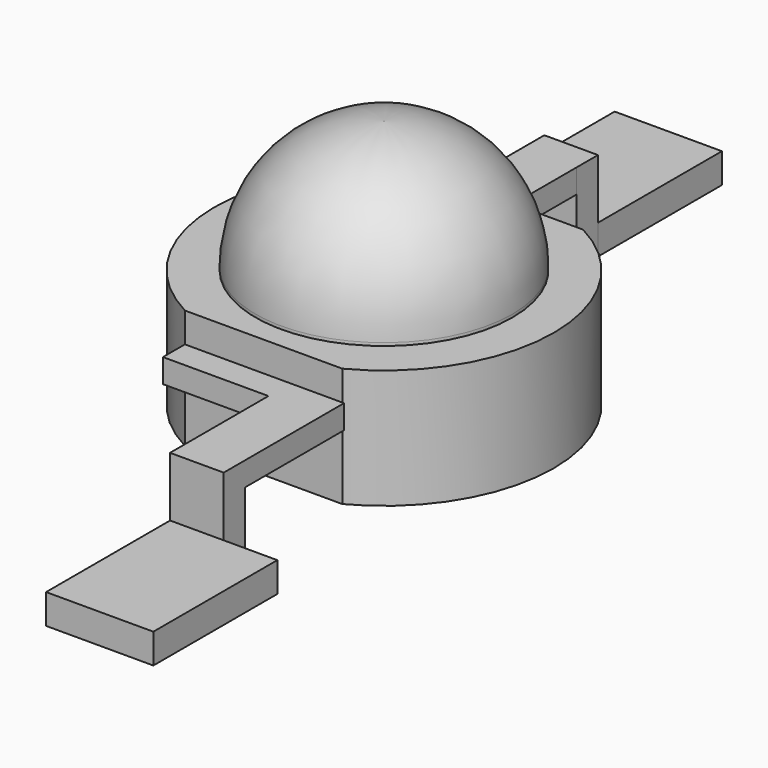
from build123d import *

# Parameters (mm, degrees)
F0_W          = 1.799994
F0_H          = 2.599999
F0_W_2        = 1.800001
F0_H_2        = 2.600001
F1_DEPTH      = 0.5
F2_DEPTH      = 2
F3_W          = 0.9
F3_H          = 0.45
F3_W_2        = 0.899997
F4_DEPTH      = 1
F4_DEPTH_BACK = 0.5
F6_DEPTH      = 0.4
F7_R          = 2.1554
F8_DEPTH      = 2.2
F9_R          = 2.15


with BuildPart() as f1:
    # F0 (on Top) → F1 (new body)
    with BuildSketch(Plane.XY):
        with Locations((-1.350008, 6.349999)):
            Rectangle(F0_W, F0_H)
        with Locations((1.349989, -6.349998)):
            Rectangle(F0_W_2, F0_H_2)
    extrude(amount=F1_DEPTH)

    # F3 (on face) → F4 (join, two sides)
    with BuildSketch(Plane.XY.offset(0.5)) as f4_sk:
        with Locations((0.899989, -4.824998)):
            Rectangle(F3_W, F3_H)
        with Locations((-0.900009, 4.825)):
            Rectangle(F3_W_2, F3_H)
    extrude(amount=F4_DEPTH)
    extrude(f4_sk.sketch, amount=-F4_DEPTH_BACK)



with BuildPart() as f2:
    # F0 (on Top) → F2 (new body)
    with BuildSketch(Plane.XY):
        with BuildLine():
            Line((1.320324, 2.525716), (-1.320324, 2.525716))
            ThreePointArc((-1.320324, 2.525716), (-2.85, 0), (-1.320324, -2.525716))
            Line((-1.320324, -2.525716), (1.320324, -2.525716))
            ThreePointArc((1.320324, -2.525716), (2.85, 0), (1.320324, 2.525716))
        make_face()
    extrude(amount=F2_DEPTH)


with BuildPart() as f1_1:
    add(f1.part)

    add(f2.part)  # F6 merges F2
    # F5 (on face) → F6 (join)
    with BuildSketch(Plane.XY.offset(1.5)):
        Polygon((0.449989, -4.599998), (1.349989, -4.599998), (1.349989, -2.525716), (0.449989, -2.525716), (-1.320324, -2.525716), (-1.320324, -2.986554), (0.449989, -2.986554), align=None)
        Polygon((-0.450011, 4.6), (-1.350008, 4.6), (-1.350008, 2.525716), (-0.450011, 2.525716), (1.320324, 2.525716), (1.320324, 2.865515), (-0.450011, 2.865515), align=None)
    extrude(amount=-F6_DEPTH)


with BuildPart() as f8:
    # F7 (on face) → F8 (new body)
    with BuildSketch(Plane.XY.offset(2)):
        Circle(F7_R)
    extrude(amount=F8_DEPTH)

    # F9
    f9_edges = [f8.edges().sort_by_distance(p)[0] for p in [
        (-2.1554, 0, 4.2),
    ]]
    fillet(f9_edges, radius=F9_R)


solid = Compound([f1_1.part, f8.part])
